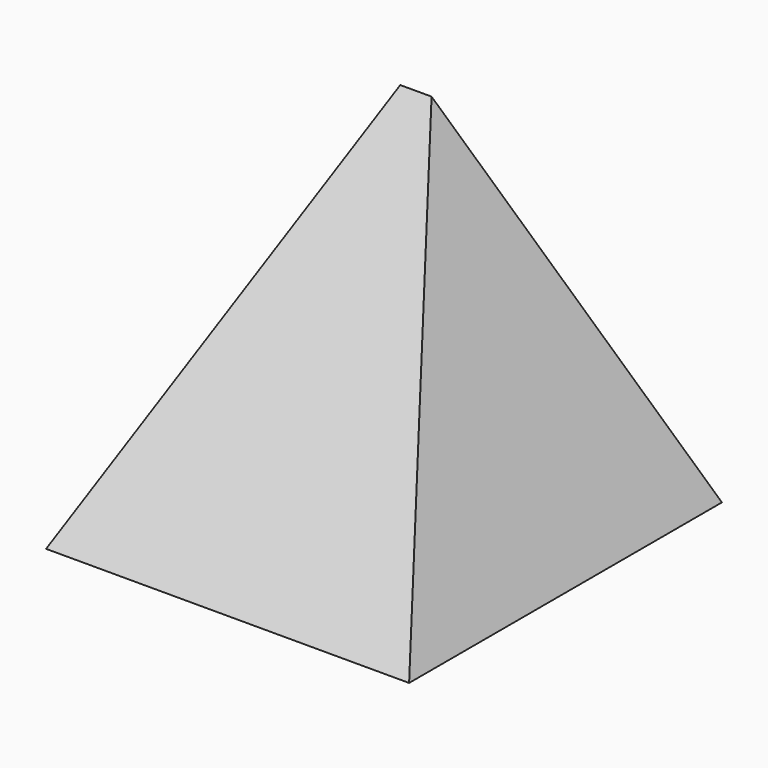
from build123d import *

# Parameters (mm, degrees)
F0_W      = 55.562247
F0_H      = 56.532964
F1_DEPTH  = 55.88
F3_DEPTH  = 143.764
F5_DEPTH  = 45.466
F7_DEPTH  = 94.742
F9_DEPTH  = 254
F10_W     = 102.854468
F10_H     = 33.626976
F11_DEPTH = 128.524
F12_W     = 127.998766
F12_H     = 88.431828
F13_DEPTH = 11.43


with BuildPart() as f1:
    # F0 (on Front) → F1 (new body)
    with BuildSketch(Plane.XZ):
        with Locations((-1.708673, 28.266482)):
            Rectangle(F0_W, F0_H)
    extrude(amount=F1_DEPTH)

    # F2 (on Front) → F3 (cut)
    with BuildSketch(Plane.XZ):
        Polygon((0, 58.050822), (27.564345, 0), (27.564345, 58.050822), align=None)
    extrude(amount=F3_DEPTH, mode=Mode.SUBTRACT)

    # F4 (on Right) → F5 (cut, symmetric)
    with BuildSketch(Plane.YZ):
        Polygon((-62.023856, 67.624263), (-61.119623, 0), (-15.732997, 67.624263), align=None)
    extrude(amount=F5_DEPTH, both=True, mode=Mode.SUBTRACT)

    # F6 (on face) → F7 (cut)
    with BuildSketch(Plane(origin=(-29.489797, 0, 0), x_dir=(0, -1, 0), z_dir=(-1, 0, 0))):
        Polygon((0, 0), (23.177022, 56.532964), (0, 56.532964), align=None)
    extrude(amount=-F7_DEPTH, mode=Mode.SUBTRACT)

    # F8 (on Front) → F9 (cut)
    with BuildSketch(Plane.XZ):
        Polygon((-39.340276, 63.730873), (-28.191272, 0), (0, 63.730873), align=None)
    extrude(amount=F9_DEPTH, mode=Mode.SUBTRACT)

    # F10 (on Front) → F11 (cut)
    with BuildSketch(Plane.XZ):
        with Locations((-6.703854, -8.482341)):
            Rectangle(F10_W, F10_H)
    extrude(amount=F11_DEPTH, mode=Mode.SUBTRACT)

    # F12 (on Top) → F13 (cut)
    with BuildSketch(Plane.XY):
        with Locations((12.506837, -16.333792)):
            Rectangle(F12_W, F12_H)
    extrude(amount=F13_DEPTH, mode=Mode.SUBTRACT)


solid = f1.part
